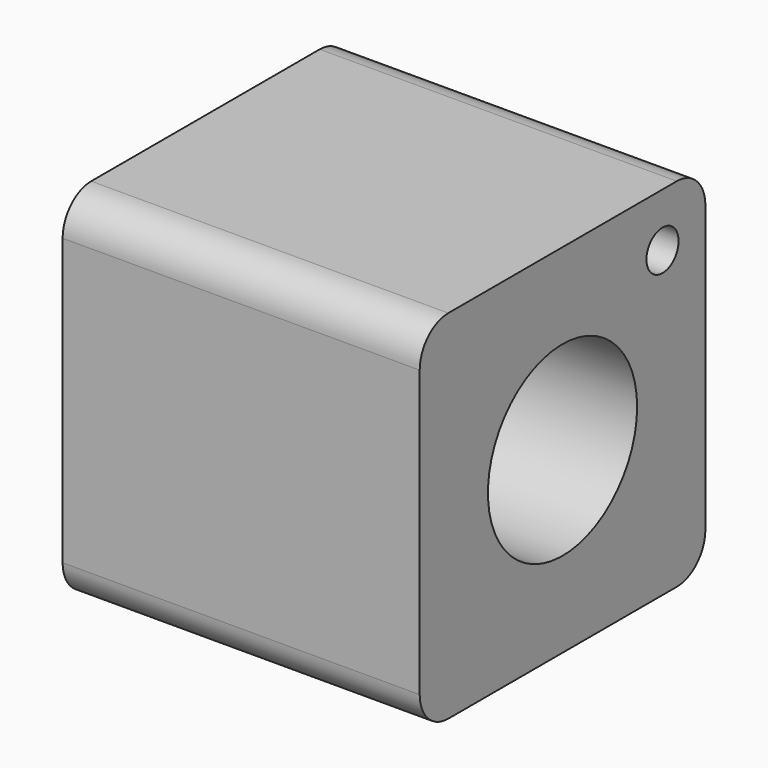
from build123d import *

# Parameters (mm, degrees)
F0_W     = 50.8
F0_H     = 50.8
F1_DEPTH = 50.8
F2_R     = 13.262448
F3_DEPTH = 50.801
F4_R     = 5.08
F5_R     = 2.8575
F6_DEPTH = 50.801


with BuildPart() as f1:
    # F0 (on Top) → F1 (new body)
    with BuildSketch(Plane.XY):
        with Locations((25.4, 25.4)):
            Rectangle(F0_W, F0_H)
    extrude(amount=F1_DEPTH)

    # F2 (on face) → F3 (cut, through all)
    with BuildSketch(Plane.YZ.offset(50.8)):
        with Locations((25.4, 25.4)):
            Circle(F2_R)
    extrude(amount=-F3_DEPTH, mode=Mode.SUBTRACT)

    # F4
    f4_edges = [f1.edges().sort_by_distance(p)[0] for p in [
        (25.4, 50.8, 50.8),
        (25.4, 0, 50.8),
        (25.4, 50.8, 0),
        (25.4, 0, 0),
    ]]
    fillet(f4_edges, radius=F4_R)

    # F5 (on face) → F6 (cut, through all)
    with BuildSketch(Plane.YZ.offset(50.8)):
        with Locations((43.18, 43.18)):
            Circle(F5_R)
    extrude(amount=-F6_DEPTH, mode=Mode.SUBTRACT)


solid = f1.part
